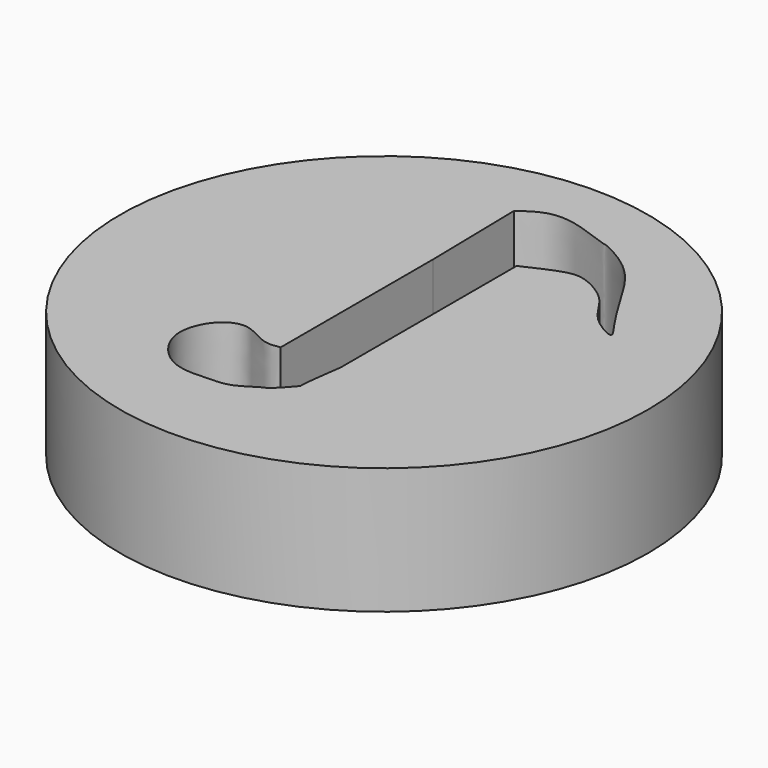
from build123d import *

# Parameters (mm, degrees)
F0_R     = 53.0578530838
F1_DEPTH = 25.4


with BuildPart() as f1:
    # F0 (on Top) → F1 (new body)
    with BuildSketch(Plane.XY):
        Circle(F0_R)
        with BuildLine():
            Line((-5.2131153643, -19.4651000202), (-5.2131153643, 18.7661610544))
            Line((-5.2131153643, 18.7661610544), (-5.6072520092, 39.6554134786))
            add(Edge.make_bspline(
                [(-5.6072520092, 39.6554134786), (-4.3521663629, 40.5601218019), (-1.6266157774, 42.5247911515), (4.1284290449, 43.038436165), (12.5350079862, 39.4673056477), (12.7096812836, 39.8281923795), (19.98399647, 36.2681684093), (24.9973368894, 29.0522259934), (29.8533312894, 20.2953506455), (34.3384894431, 14.7736776846), (27.054295063, 18.7245983212), (24.7318594343, 23.8291619017), (20.9992622558, 26.9760416509), (16.4594533344, 29.0874813019), (12.5549789136, 28.1512528215), (8.6534681622, 26.3203790267), (6.4139189199, 25.2694189548)],
                knots=[0, 0, 0, 0, 0.0656281689, 0.1425184765, 0.2306482305, 0.2442373102, 0.3240342204, 0.4198146873, 0.520801704, 0.5811518123, 0.6509998953, 0.7271481227, 0.7938361266, 0.8600886976, 0.9196879693, 1, 1, 1, 1], degree=3))
            Line((6.4139189199, 25.2694189548), (6.4139189199, -18.8738945872))
            add(Edge.make_bspline(
                [(-5.2131153643, -19.4651000202), (-6.2760331917, -19.6525766147), (-8.7309216755, -20.0855678779), (-13.835934089, -16.1333463454), (-19.2777003972, -19.0216400062), (-21.8000833254, -25.8784892305), (-18.3957883733, -32.0698609262), (-13.3388874934, -35.2651153731), (-6.8535838096, -34.7604766072), (-2.9941565364, -34.7915567357), (1.5019831579, -31.4005631172), (1.6566421354, -32.0263372134), (5.6797733899, -27.6816269013), (5.2045081026, -27.5778590642), (5.8514735912, -22.9217368016), (6.4139189199, -18.8738945872)],
                knots=[0, 0, 0, 0, 0.0678657366, 0.1567410113, 0.241314532, 0.3370620601, 0.4317683606, 0.5206436284, 0.6123120958, 0.6901459753, 0.7710956724, 0.7875555324, 0.8740069969, 0.8904668375, 1, 1, 1, 1], degree=3))
        make_face(mode=Mode.SUBTRACT)
    extrude(amount=F1_DEPTH)


solid = f1.part
